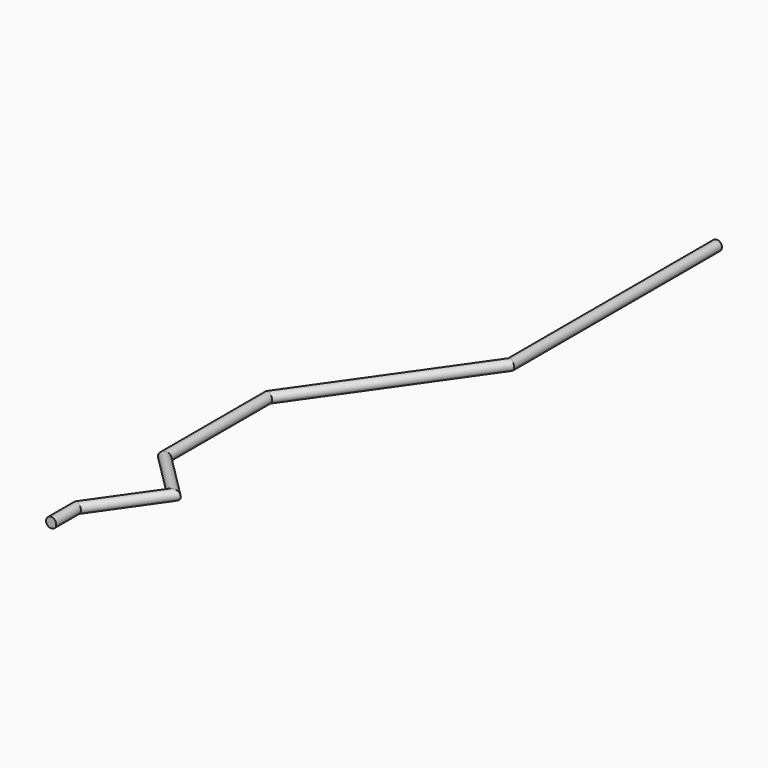
from build123d import *

# Parameters (mm, degrees)
F1_R = 7.8880627454


with BuildPart() as f2:
    # F2: sweep along a path in F0
    with BuildLine(Plane.XY) as f2_path:
        Line((400, 0), (400, -400))
        Line((400, -400), (224.9481154476, -650))
        Line((224.9481154476, -650), (224.9481154476, -850))
        Line((224.9481154476, -850), (294.9688692685, -920.020753821))
        Line((294.9688692685, -920.020753821), (224.9481154476, -1020.020753821))
        Line((224.9481154476, -1020.020753821), (224.9481154476, -1070.020753821))
    # F1 (on Front) → F2 (sweep)
    with BuildSketch(Plane.XZ):
        with Locations((399.4062542915, 0)):
            Circle(F1_R)
    sweep(path=f2_path.line, transition=Transition.RIGHT)


solid = f2.part
